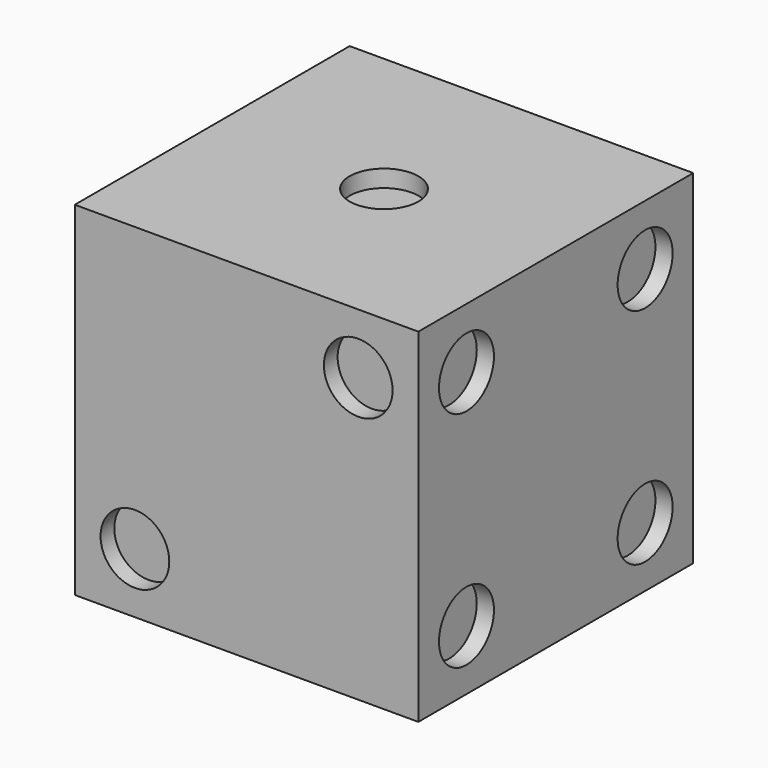
from build123d import *

# Parameters (mm, degrees)
F0_W      = 127
F0_H      = 127
F1_DEPTH  = 127
F2_R      = 12.7
F3_DEPTH  = 6.35
F4_R      = 12.7
F5_DEPTH  = 6.35
F6_R      = 12.7
F7_DEPTH  = 6.35
F8_R      = 12.7
F9_DEPTH  = 6.35
F10_R     = 12.7
F11_DEPTH = 6.35
F12_R     = 12.7
F13_DEPTH = 6.35


with BuildPart() as f1:
    # F0 (on Top) → F1 (new body)
    with BuildSketch(Plane.XY):
        with Locations((63.5, 63.5)):
            Rectangle(F0_W, F0_H)
    extrude(amount=F1_DEPTH)

    # F2 (on face) → F3 (cut)
    with BuildSketch(Plane.XY.offset(127)):
        with Locations((63.5, 63.5)):
            Circle(F2_R)
    extrude(amount=-F3_DEPTH, mode=Mode.SUBTRACT)

    # F4 (on face) → F5 (cut)
    with BuildSketch(Plane.XZ):
        with Locations((22.225, 22.225)):
            Circle(F4_R)
        with Locations((104.775, 104.775)):
            Circle(F4_R)
    extrude(amount=-F5_DEPTH, mode=Mode.SUBTRACT)

    # F6 (on face) → F7 (cut)
    with BuildSketch(Plane(origin=(0, 0, 0), x_dir=(0, -1, 0), z_dir=(-1, 0, 0))):
        with Locations((-104.775, 22.225)):
            Circle(F6_R)
        with Locations((-63.5, 63.5)):
            Circle(F6_R)
        with Locations((-22.225, 104.775)):
            Circle(F6_R)
    extrude(amount=-F7_DEPTH, mode=Mode.SUBTRACT)

    # F8 (on face) → F9 (cut)
    with BuildSketch(Plane.YZ.offset(127)):
        with Locations((22.225, 104.775)):
            Circle(F8_R)
        with Locations((104.775, 104.775)):
            Circle(F8_R)
        with Locations((104.775, 22.225)):
            Circle(F8_R)
        with Locations((22.225, 22.225)):
            Circle(F8_R)
    extrude(amount=-F9_DEPTH, mode=Mode.SUBTRACT)

    # F10 (on face) → F11 (cut)
    with BuildSketch(Plane(origin=(0, 0, 0), x_dir=(1, 0, 0), z_dir=(0, 0, -1))):
        with Locations((22.225, -22.225)):
            Circle(F10_R)
        with Locations((22.225, -104.775)):
            Circle(F10_R)
        with Locations((104.775, -22.225)):
            Circle(F10_R)
        with Locations((104.775, -104.775)):
            Circle(F10_R)
        with Locations((22.225, -63.5)):
            Circle(F10_R)
        with Locations((104.775, -63.5)):
            Circle(F10_R)
    extrude(amount=-F11_DEPTH, mode=Mode.SUBTRACT)

    # F12 (on face) → F13 (cut)
    with BuildSketch(Plane(origin=(0, 127, 0), x_dir=(-1, 0, 0), z_dir=(0, 1, 0))):
        with Locations((-104.775, 103.400768)):
            Circle(F12_R)
        with Locations((-63.5, 63.5)):
            Circle(F12_R)
        with Locations((-22.225, 104.775)):
            Circle(F12_R)
        with Locations((-22.225, 22.225)):
            Circle(F12_R)
        with Locations((-104.775, 22.225)):
            Circle(F12_R)
    extrude(amount=-F13_DEPTH, mode=Mode.SUBTRACT)


solid = f1.part
